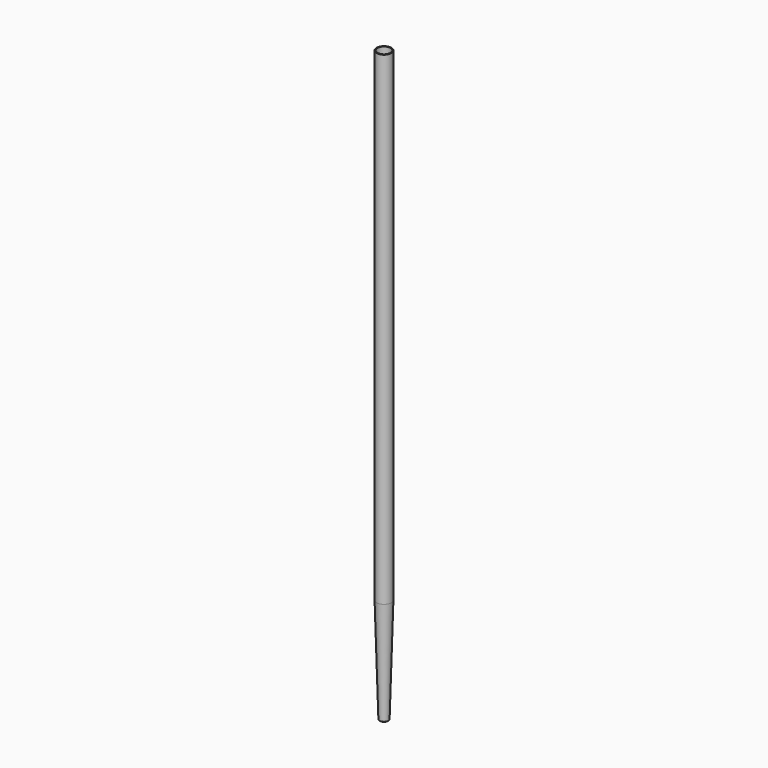
from build123d import *


with BuildPart() as f1:
    # F0 (on Front) → F1 (revolve)
    with BuildSketch(Plane.XZ):
        with BuildLine():
            ThreePointArc((-0.261839, 0), (-0.256375, 0.002309), (-0.254222, 0.007836))
            Line((-0.254222, 0.007836), (-0.46989, 7.616581))
            ThreePointArc((-0.46989, 7.616581), (-0.469897, 7.616941), (-0.4699, 7.617301))
            Line((-0.4699, 7.617301), (-0.4699, 42.616941))
            Line((-0.4699, 42.616941), (-0.5334, 42.616941))
            Line((-0.5334, 42.616941), (-0.5334, 7.617301))
            ThreePointArc((-0.5334, 7.617301), (-0.533397, 7.616941), (-0.53339, 7.616581))
            Line((-0.53339, 7.616581), (-0.318899, 0.049361))
            ThreePointArc((-0.318899, 0.049361), (-0.303528, 0.014374), (-0.26812, 0))
            Line((-0.26812, 0), (-0.261839, 0))
        make_face()
    revolve(axis=Axis((0, 0, 0.468671), (0, 0, -1)))


solid = f1.part
